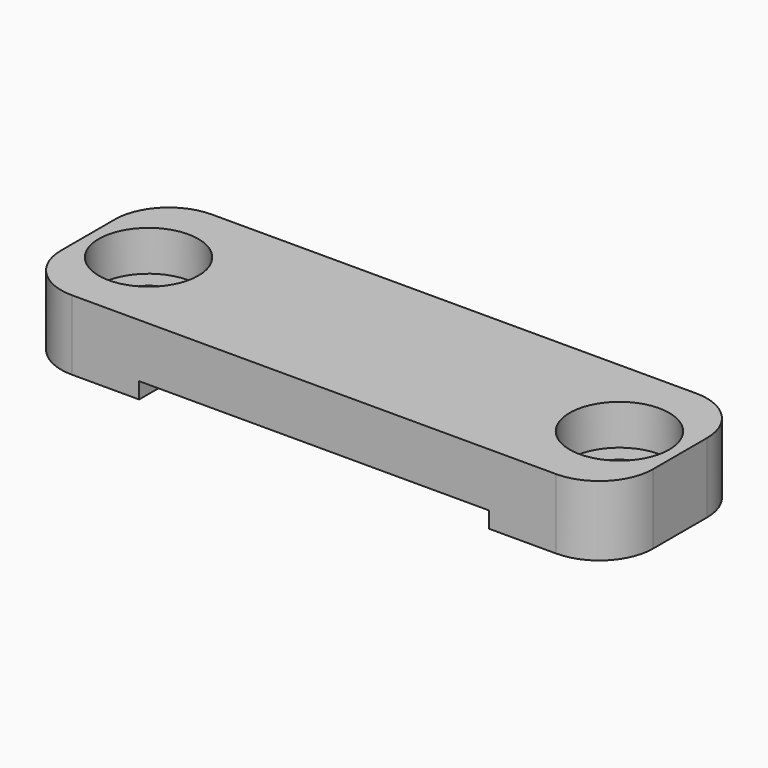
from build123d import *

# Parameters (mm, degrees)
F0_W           = 22
F0_H           = 6.5
F1_DEPTH       = 2
F2_W           = 4.5
F2_H           = 6.5
F3_DEPTH       = 0.6
F6_D           = 2.2
F6_CBORE_D     = 3.7
F6_CBORE_DEPTH = 1.5
F7_R           = 2


with BuildPart() as f1:
    # F0 (on Top) → F1 (new body)
    with BuildSketch(Plane.XY):
        Rectangle(F0_W, F0_H)
    extrude(amount=F1_DEPTH)

    # F2 (on Top) → F3 (join)
    with BuildSketch(Plane.XY):
        with Locations((-8.75, 0)):
            Rectangle(F2_W, F2_H)
        with Locations((8.75, 0)):
            Rectangle(F2_W, F2_H)
    extrude(amount=-F3_DEPTH)

    # F6 (through all)
    with Locations(Plane.XY.offset(2)):
        with Locations((-8.75, 0), (8.75, 0)):
            CounterBoreHole(F6_D / 2, F6_CBORE_D / 2, F6_CBORE_DEPTH)

    # F7
    f7_edges = [f1.edges().sort_by_distance(p)[0] for p in [
        (-11, -3.25, 0.7),
        (-11, 3.25, 0.7),
        (11, -3.25, 0.7),
        (11, 3.25, 0.7),
    ]]
    fillet(f7_edges, radius=F7_R)


solid = f1.part
